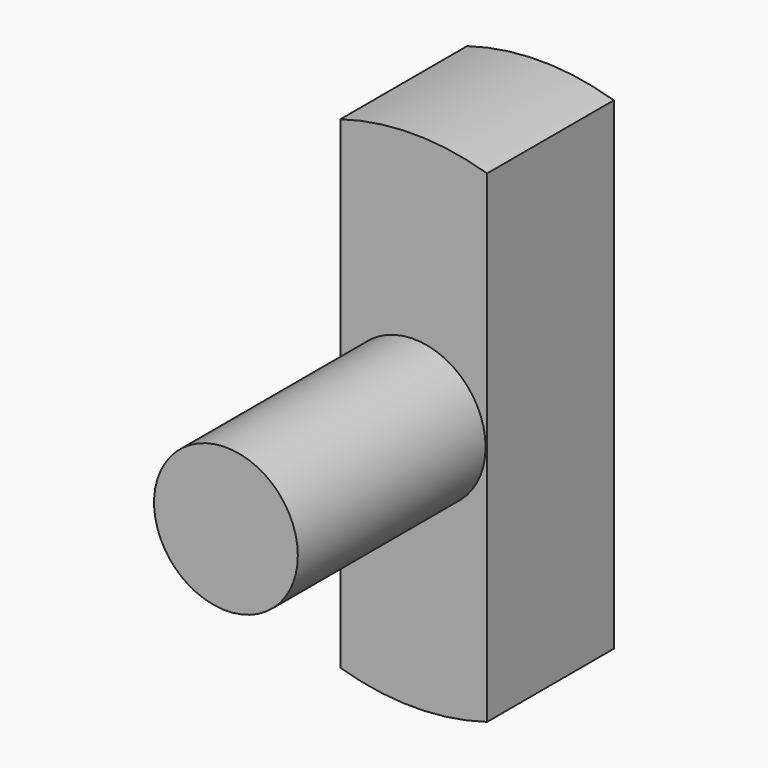
from build123d import *

# Parameters (mm, degrees)
F1_DEPTH = 3.429
F2_R     = 1.55575
F3_DEPTH = 5.08


with BuildPart() as f1:
    # F0 (on Front) → F1 (new body)
    with BuildSketch(Plane.XZ):
        with BuildLine():
            Line((1.5875, -5.225166), (1.5875, 5.225166))
            ThreePointArc((1.5875, 5.225166), (0, 5.461), (-1.5875, 5.225166))
            Line((-1.5875, 5.225166), (-1.5875, -5.225166))
            ThreePointArc((-1.5875, -5.225166), (0, -5.461), (1.5875, -5.225166))
        make_face()
    extrude(amount=-F1_DEPTH)

    # F2 (on face) → F3 (join)
    with BuildSketch(Plane.XZ):
        Circle(F2_R)
    extrude(amount=F3_DEPTH)


solid = f1.part
